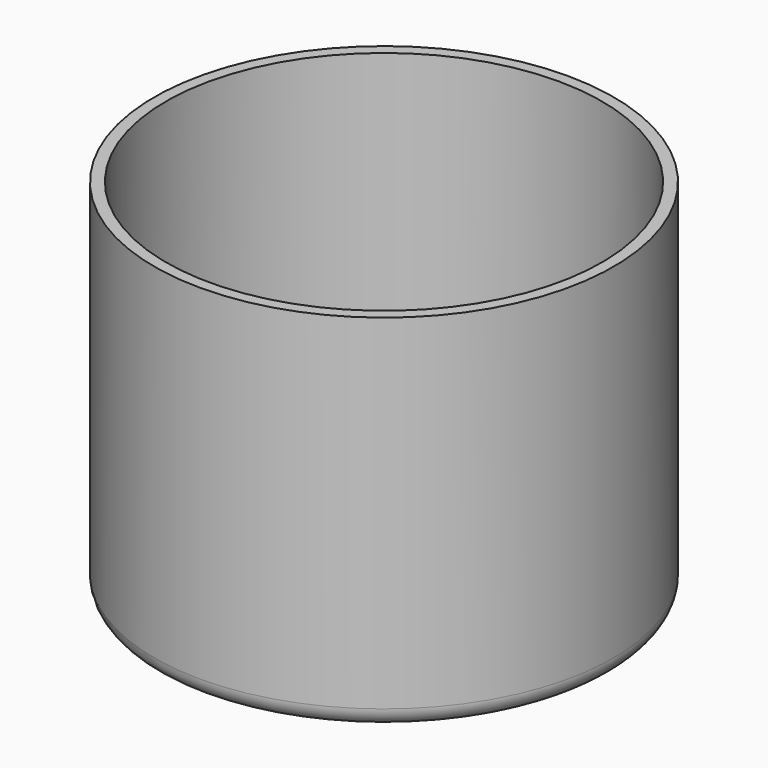
from build123d import *

# Parameters (mm, degrees)
F3_DEPTH = 10


with BuildPart() as f1:
    # F0 (on Right) → F1 (revolve)
    with BuildSketch(Plane.YZ):
        with BuildLine():
            Line((0, 1.6), (0, 0))
            Line((0, 0), (29, 0))
            ThreePointArc((29, 0), (30.838478, 0.761522), (31.6, 2.6))
            Line((31.6, 2.6), (31.6, 50))
            Line((31.6, 50), (30, 50))
            Line((30, 50), (30, 2.6))
            ThreePointArc((30, 2.6), (29.707107, 1.892893), (29, 1.6))
            Line((29, 1.6), (4.2, 1.6))
            Line((4.2, 1.6), (4.2, 11.6))
            Line((4.2, 11.6), (2.6, 11.6))
            Line((2.6, 11.6), (2.6, 1.6))
            Line((2.6, 1.6), (0, 1.6))
        make_face()
    revolve(axis=Axis((0, 0, 0.8), (0, 0, 1)))

    # F2 (on face) → F3 (join, through all)
    with BuildSketch(Plane.XY.offset(11.6)):
        with BuildLine():
            ThreePointArc((1.385641, 2.2), (0, 2.6), (-1.385641, 2.2))
            Line((-1.385641, 2.2), (1.385641, 2.2))
        make_face()
    extrude(amount=-F3_DEPTH)


solid = f1.part
